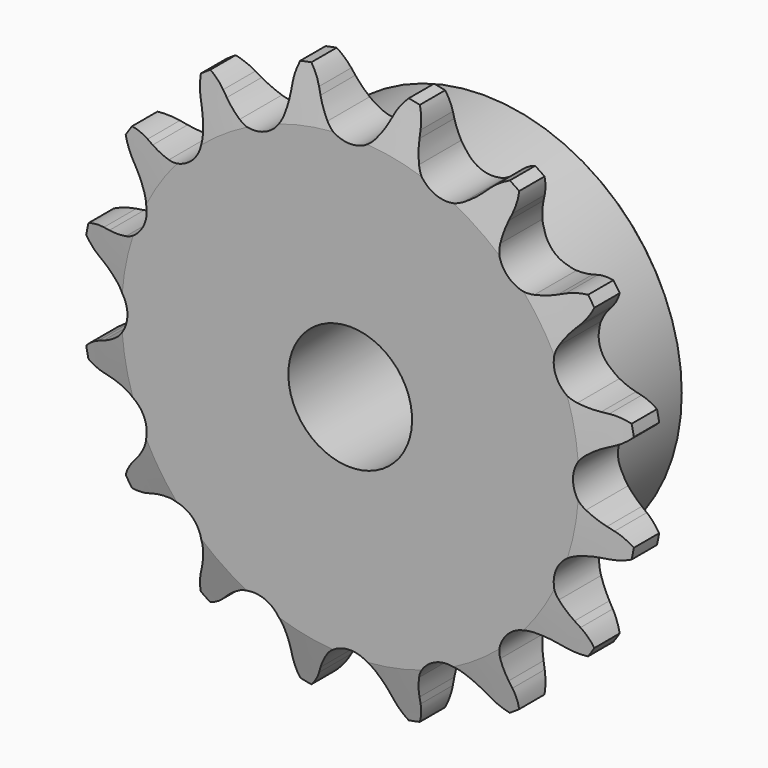
from build123d import *

# Parameters (mm, degrees)
F0_W     = 7.2136
F0_H     = 17.4625
F0_W_2   = 15.0114
F0_H_2   = 10.287
F2_SIZE  = 0.79375
F3_R     = 1.5875
F4_SIZE2 = 6.35
F4_SIZE  = 1.5748
F6_DEPTH = 22.226


with BuildPart() as f1:
    # F0 (on Right) → F1 (revolve)
    with BuildSketch(Plane.YZ):
        with Locations((3.6068, 16.66875)):
            Rectangle(F0_W, F0_H)
        with Locations((14.7193, 16.66875)):
            Rectangle(F0_W_2, F0_H)
        with Locations((3.6068, 30.5435)):
            Rectangle(F0_W, F0_H_2)
    revolve(axis=Axis((0, 11.1125, 0), (0, 1, 0)))

    # F2
    f2_edges = [f1.edges().sort_by_distance(p)[0] for p in [
        (0, 22.225, -25.4),
    ]]
    chamfer(f2_edges, length=F2_SIZE)

    # F3
    f3_edges = [f1.edges().sort_by_distance(p)[0] for p in [
        (0, 7.2136, -25.4),
    ]]
    fillet(f3_edges, radius=F3_R)

    # F4
    f4_edges = [f1.edges().sort_by_distance(p)[0] for p in [
        (0, 7.2136, -35.687),
        (0, 0, -35.687),
        (0, 3.6068, 35.687),
    ]]
    f4_side = f1.faces().sort_by_distance((0, 3.6068, -35.687))[0]
    chamfer(f4_edges, length=F4_SIZE, length2=F4_SIZE2, reference=f4_side)

    # F5 (on face) → F6 (intersect, through all)
    with BuildSketch(Plane.XZ):
        with BuildLine():
            ThreePointArc((-3.0902142758, 30.0699408338), (-3.8441959519, 31.1417538349), (-4.4568878106, 32.3001493474))
            Line((-4.4568878106, 32.3001493474), (-4.8164154778, 33.0982711732))
            ThreePointArc((-4.8164154778, 33.0982711732), (-5.7824590494, 34.6345413147), (-7.1308367855, 35.8491373836))
            ThreePointArc((-7.1308367855, 35.8491373836), (-7.9117695854, 34.2109951151), (-8.2163723379, 32.4219777052))
            Line((-8.2163723379, 32.4219777052), (-8.2431045912, 31.5470240041))
            ThreePointArc((-8.2431045912, 31.5470240041), (-8.3658592885, 30.2423390761), (-8.6522824488, 28.963576686))
            ThreePointArc((-8.6522824488, 28.963576686), (-10.9400391594, 26.4115909116), (-14.3622538898, 26.5984290744))
            ThreePointArc((-14.3622538898, 26.5984290744), (-15.4690072063, 27.300118873), (-16.4783594451, 28.135869754))
            Line((-16.4783594451, 28.135869754), (-17.115947698, 28.7356528917))
            ThreePointArc((-17.115947698, 28.7356528917), (-18.596360712, 29.7852925621), (-20.3069050971, 30.3914311902))
            ThreePointArc((-20.3069050971, 30.3914311902), (-20.4015030212, 28.5791350327), (-19.9982919468, 26.8097320375))
            Line((-19.9982919468, 26.8097320375), (-19.688159043, 25.9911502307))
            ThreePointArc((-19.688159043, 25.9911502307), (-19.3022882889, 24.7388023405), (-19.0775476037, 23.4477705432))
            ThreePointArc((-19.0775476037, 23.4477705432), (-20.2145565285, 20.2145565285), (-23.4477705432, 19.0775476037))
            ThreePointArc((-23.4477705432, 19.0775476037), (-24.7388023405, 19.3022882889), (-25.9911502307, 19.688159043))
            Line((-25.9911502307, 19.688159043), (-26.8097320375, 19.9982919468))
            ThreePointArc((-26.8097320375, 19.9982919468), (-28.5791350327, 20.4015030212), (-30.3914311902, 20.3069050971))
            ThreePointArc((-30.3914311902, 20.3069050971), (-29.7852925621, 18.596360712), (-28.7356528917, 17.115947698))
            Line((-28.7356528917, 17.115947698), (-28.135869754, 16.4783594451))
            ThreePointArc((-28.135869754, 16.4783594451), (-27.300118873, 15.4690072063), (-26.5984290744, 14.3622538898))
            ThreePointArc((-26.5984290744, 14.3622538898), (-26.4115909116, 10.9400391594), (-28.963576686, 8.6522824488))
            ThreePointArc((-28.963576686, 8.6522824488), (-30.2423390761, 8.3658592885), (-31.5470240041, 8.2431045912))
            Line((-31.5470240041, 8.2431045912), (-32.4219777052, 8.2163723379))
            ThreePointArc((-32.4219777052, 8.2163723379), (-34.2109951151, 7.9117695854), (-35.8491373836, 7.1308367855))
            ThreePointArc((-35.8491373836, 7.1308367855), (-34.6345413147, 5.7824590494), (-33.0982711732, 4.8164154778))
            Line((-33.0982711732, 4.8164154778), (-32.3001493474, 4.4568878106))
            ThreePointArc((-32.3001493474, 4.4568878106), (-31.1417538349, 3.8441959519), (-30.0699408338, 3.0902142758))
            ThreePointArc((-30.0699408338, 3.0902142758), (-28.5877, 0), (-30.0699408338, -3.0902142758))
            ThreePointArc((-30.0699408338, -3.0902142758), (-31.1417538349, -3.8441959519), (-32.3001493474, -4.4568878106))
            Line((-32.3001493474, -4.4568878106), (-33.0982711732, -4.8164154778))
            ThreePointArc((-33.0982711732, -4.8164154778), (-34.6345413147, -5.7824590494), (-35.8491373836, -7.1308367855))
            ThreePointArc((-35.8491373836, -7.1308367855), (-34.2109951151, -7.9117695854), (-32.4219777052, -8.2163723379))
            Line((-32.4219777052, -8.2163723379), (-31.5470240041, -8.2431045912))
            ThreePointArc((-31.5470240041, -8.2431045912), (-30.2423390761, -8.3658592885), (-28.963576686, -8.6522824488))
            ThreePointArc((-28.963576686, -8.6522824488), (-26.4115909116, -10.9400391594), (-26.5984290744, -14.3622538898))
            ThreePointArc((-26.5984290744, -14.3622538898), (-27.300118873, -15.4690072063), (-28.135869754, -16.4783594451))
            Line((-28.135869754, -16.4783594451), (-28.7356528917, -17.115947698))
            ThreePointArc((-28.7356528917, -17.115947698), (-29.7852925621, -18.596360712), (-30.3914311902, -20.3069050971))
            ThreePointArc((-30.3914311902, -20.3069050971), (-28.5791350327, -20.4015030212), (-26.8097320375, -19.9982919468))
            Line((-26.8097320375, -19.9982919468), (-25.9911502307, -19.688159043))
            ThreePointArc((-25.9911502307, -19.688159043), (-24.7388023405, -19.3022882889), (-23.4477705432, -19.0775476037))
            ThreePointArc((-23.4477705432, -19.0775476037), (-20.2145565285, -20.2145565285), (-19.0775476037, -23.4477705432))
            ThreePointArc((-19.0775476037, -23.4477705432), (-19.3022882889, -24.7388023405), (-19.688159043, -25.9911502307))
            Line((-19.688159043, -25.9911502307), (-19.9982919468, -26.8097320375))
            ThreePointArc((-19.9982919468, -26.8097320375), (-20.4015030212, -28.5791350327), (-20.3069050971, -30.3914311902))
            ThreePointArc((-20.3069050971, -30.3914311902), (-18.596360712, -29.7852925621), (-17.115947698, -28.7356528917))
            Line((-17.115947698, -28.7356528917), (-16.4783594451, -28.135869754))
            ThreePointArc((-16.4783594451, -28.135869754), (-15.4690072063, -27.300118873), (-14.3622538898, -26.5984290744))
            ThreePointArc((-14.3622538898, -26.5984290744), (-10.9400391594, -26.4115909116), (-8.6522824488, -28.963576686))
            ThreePointArc((-8.6522824488, -28.963576686), (-8.3658592885, -30.2423390761), (-8.2431045912, -31.5470240041))
            Line((-8.2431045912, -31.5470240041), (-8.2163723379, -32.4219777052))
            ThreePointArc((-8.2163723379, -32.4219777052), (-7.9117695854, -34.2109951151), (-7.1308367855, -35.8491373836))
            ThreePointArc((-7.1308367855, -35.8491373836), (-5.7824590494, -34.6345413147), (-4.8164154778, -33.0982711732))
            Line((-4.8164154778, -33.0982711732), (-4.4568878106, -32.3001493474))
            ThreePointArc((-4.4568878106, -32.3001493474), (-3.8441959519, -31.1417538349), (-3.0902142758, -30.0699408338))
            ThreePointArc((-3.0902142758, -30.0699408338), (0, -28.5877), (3.0902142758, -30.0699408338))
            ThreePointArc((3.0902142758, -30.0699408338), (3.8441959519, -31.1417538349), (4.4568878106, -32.3001493474))
            Line((4.4568878106, -32.3001493474), (4.8164154778, -33.0982711732))
            ThreePointArc((4.8164154778, -33.0982711732), (5.7824590494, -34.6345413147), (7.1308367855, -35.8491373836))
            ThreePointArc((7.1308367855, -35.8491373836), (7.9117695854, -34.2109951151), (8.2163723379, -32.4219777052))
            Line((8.2163723379, -32.4219777052), (8.2431045912, -31.5470240041))
            ThreePointArc((8.2431045912, -31.5470240041), (8.3658592885, -30.2423390761), (8.6522824488, -28.963576686))
            ThreePointArc((8.6522824488, -28.963576686), (10.9400391594, -26.4115909116), (14.3622538898, -26.5984290744))
            ThreePointArc((14.3622538898, -26.5984290744), (15.4690072063, -27.300118873), (16.4783594451, -28.135869754))
            Line((16.4783594451, -28.135869754), (17.115947698, -28.7356528917))
            ThreePointArc((17.115947698, -28.7356528917), (18.596360712, -29.7852925621), (20.3069050971, -30.3914311902))
            ThreePointArc((20.3069050971, -30.3914311902), (20.4015030212, -28.5791350327), (19.9982919468, -26.8097320375))
            Line((19.9982919468, -26.8097320375), (19.688159043, -25.9911502307))
            ThreePointArc((19.688159043, -25.9911502307), (19.3022882889, -24.7388023405), (19.0775476037, -23.4477705432))
            ThreePointArc((19.0775476037, -23.4477705432), (20.2145565285, -20.2145565285), (23.4477705432, -19.0775476037))
            ThreePointArc((23.4477705432, -19.0775476037), (24.7388023405, -19.3022882889), (25.9911502307, -19.688159043))
            Line((25.9911502307, -19.688159043), (26.8097320375, -19.9982919468))
            ThreePointArc((26.8097320375, -19.9982919468), (28.5791350327, -20.4015030212), (30.3914311902, -20.3069050971))
            ThreePointArc((30.3914311902, -20.3069050971), (29.7852925621, -18.596360712), (28.7356528917, -17.115947698))
            Line((28.7356528917, -17.115947698), (28.135869754, -16.4783594451))
            ThreePointArc((28.135869754, -16.4783594451), (27.300118873, -15.4690072063), (26.5984290744, -14.3622538898))
            ThreePointArc((26.5984290744, -14.3622538898), (26.4115909116, -10.9400391594), (28.963576686, -8.6522824488))
            ThreePointArc((28.963576686, -8.6522824488), (30.2423390761, -8.3658592885), (31.5470240041, -8.2431045912))
            Line((31.5470240041, -8.2431045912), (32.4219777052, -8.2163723379))
            ThreePointArc((32.4219777052, -8.2163723379), (34.2109951151, -7.9117695854), (35.8491373836, -7.1308367855))
            ThreePointArc((35.8491373836, -7.1308367855), (34.6345413147, -5.7824590494), (33.0982711732, -4.8164154778))
            Line((33.0982711732, -4.8164154778), (32.3001493474, -4.4568878106))
            ThreePointArc((32.3001493474, -4.4568878106), (31.1417538349, -3.8441959519), (30.0699408338, -3.0902142758))
            ThreePointArc((30.0699408338, -3.0902142758), (28.5877, 0), (30.0699408338, 3.0902142758))
            ThreePointArc((30.0699408338, 3.0902142758), (31.1417538349, 3.8441959519), (32.3001493474, 4.4568878106))
            Line((32.3001493474, 4.4568878106), (33.0982711732, 4.8164154778))
            ThreePointArc((33.0982711732, 4.8164154778), (34.6345413147, 5.7824590494), (35.8491373836, 7.1308367855))
            ThreePointArc((35.8491373836, 7.1308367855), (34.2109951151, 7.9117695854), (32.4219777052, 8.2163723379))
            Line((32.4219777052, 8.2163723379), (31.5470240041, 8.2431045912))
            ThreePointArc((31.5470240041, 8.2431045912), (30.2423390761, 8.3658592885), (28.963576686, 8.6522824488))
            ThreePointArc((28.963576686, 8.6522824488), (26.4115909116, 10.9400391594), (26.5984290744, 14.3622538898))
            ThreePointArc((26.5984290744, 14.3622538898), (27.300118873, 15.4690072063), (28.135869754, 16.4783594451))
            Line((28.135869754, 16.4783594451), (28.7356528917, 17.115947698))
            ThreePointArc((28.7356528917, 17.115947698), (29.7852925621, 18.596360712), (30.3914311902, 20.3069050971))
            ThreePointArc((30.3914311902, 20.3069050971), (28.5791350327, 20.4015030212), (26.8097320375, 19.9982919468))
            Line((26.8097320375, 19.9982919468), (25.9911502307, 19.688159043))
            ThreePointArc((25.9911502307, 19.688159043), (24.7388023405, 19.3022882889), (23.4477705432, 19.0775476037))
            ThreePointArc((23.4477705432, 19.0775476037), (20.2145565285, 20.2145565285), (19.0775476037, 23.4477705432))
            ThreePointArc((19.0775476037, 23.4477705432), (19.3022882889, 24.7388023405), (19.688159043, 25.9911502307))
            Line((19.688159043, 25.9911502307), (19.9982919468, 26.8097320375))
            ThreePointArc((19.9982919468, 26.8097320375), (20.4015030212, 28.5791350327), (20.3069050971, 30.3914311902))
            ThreePointArc((20.3069050971, 30.3914311902), (18.596360712, 29.7852925621), (17.115947698, 28.7356528917))
            Line((17.115947698, 28.7356528917), (16.4783594451, 28.135869754))
            ThreePointArc((16.4783594451, 28.135869754), (15.4690072063, 27.300118873), (14.3622538898, 26.5984290744))
            ThreePointArc((14.3622538898, 26.5984290744), (10.9400391594, 26.4115909116), (8.6522824488, 28.963576686))
            ThreePointArc((8.6522824488, 28.963576686), (8.3658592885, 30.2423390761), (8.2431045912, 31.5470240041))
            Line((8.2431045912, 31.5470240041), (8.2163723379, 32.4219777052))
            ThreePointArc((8.2163723379, 32.4219777052), (7.9117695854, 34.2109951151), (7.1308367855, 35.8491373836))
            ThreePointArc((7.1308367855, 35.8491373836), (5.7824590494, 34.6345413147), (4.8164154778, 33.0982711732))
            Line((4.8164154778, 33.0982711732), (4.4568878106, 32.3001493474))
            ThreePointArc((4.4568878106, 32.3001493474), (3.8441959519, 31.1417538349), (3.0902142758, 30.0699408338))
            ThreePointArc((3.0902142758, 30.0699408338), (0, 28.5877), (-3.0902142758, 30.0699408338))
        make_face()
    extrude(amount=-F6_DEPTH, mode=Mode.INTERSECT)


solid = f1.part
